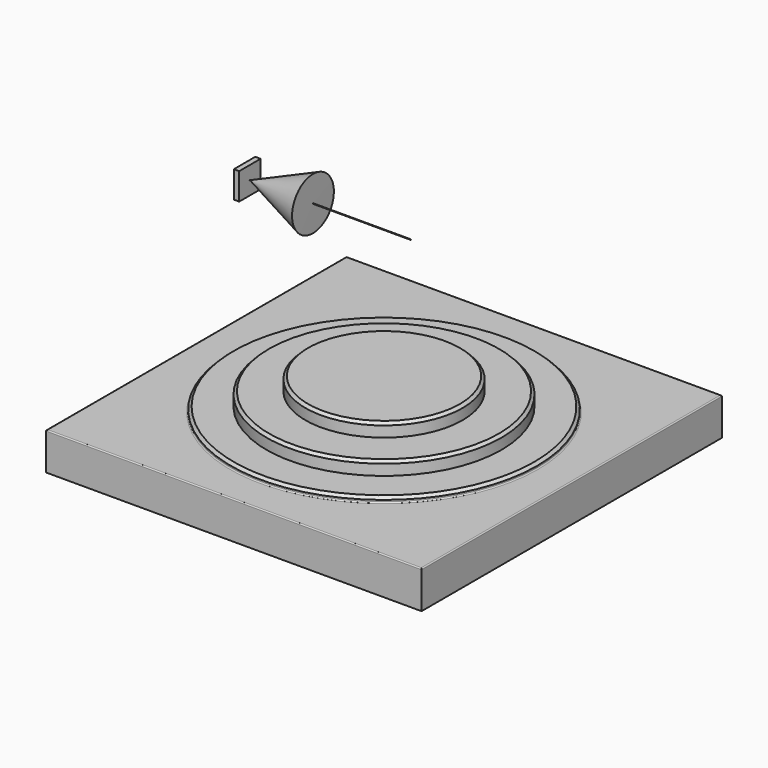
from build123d import *

# Parameters (mm, degrees)
F0_W      = 700
F0_H      = 700
F1_DEPTH  = 70
F2_R      = 285.1890902305
F3_DEPTH  = 10
F4_R      = 219.196638876
F5_DEPTH  = 25
F6_R      = 146.5573641712
F7_DEPTH  = 25
F9_W      = 50
F9_H      = 50
F10_DEPTH = 10
F11_R     = 0.5
F12_DEPTH = 300
F13_SIZE  = 5
F14_R     = 2


with BuildPart() as f1:
    # F0 (on Top) → F1 (new body)
    with BuildSketch(Plane.XY):
        Rectangle(F0_W, F0_H)
    extrude(amount=-F1_DEPTH)

    # F2 (on face) → F3 (join)
    with BuildSketch(Plane.XY):
        Circle(F2_R)
    extrude(amount=F3_DEPTH)

    # F4 (on face) → F5 (join)
    with BuildSketch(Plane.XY.offset(10)):
        Circle(F4_R)
    extrude(amount=F5_DEPTH)

    # F6 (on face) → F7 (join)
    with BuildSketch(Plane.XY.offset(35)):
        Circle(F6_R)
    extrude(amount=F7_DEPTH)

    # F13
    f13_edges = [f1.edges().sort_by_distance(p)[0] for p in [
        (-146.557364, 0, 60),
        (-219.196639, 0, 35),
        (-285.18909, 0, 10),
    ]]
    chamfer(f13_edges, length=F13_SIZE)

    # F14
    f14_edges = [f1.edges().sort_by_distance(p)[0] for p in [
        (0, -350, 0),
        (0, 350, 0),
        (350, 0, 0),
        (-350, 0, 0),
        (-285.18909, 0, 0),
    ]]
    fillet(f14_edges, radius=F14_R)


with BuildPart() as f10:
    # F9 (on offset) → F10 (new body)
    with BuildSketch(Plane.YZ.offset(-250)):
        with Locations((0, 300)):
            Rectangle(F9_W, F9_H)
    extrude(amount=-F10_DEPTH)

    # F11 (on face) → F12 (join)
    with BuildSketch(Plane.YZ.offset(-250)):
        with Locations((0, 300)):
            Circle(F11_R)
    extrude(amount=F12_DEPTH)

    # F15 (on Front) → F16 (revolve)
    with BuildSketch(Plane.XZ):
        Polygon((-132.3193562107, 348.4428985053), (-250.0126063824, 300.0144958496), (-132.3193562107, 299.7396098097), align=None)
    revolve(axis=Axis((-191.1659812966, 0, 299.8770528296), (-0.9999972725, 0, 0.0023356079)))


solid = Compound([f1.part, f10.part])
